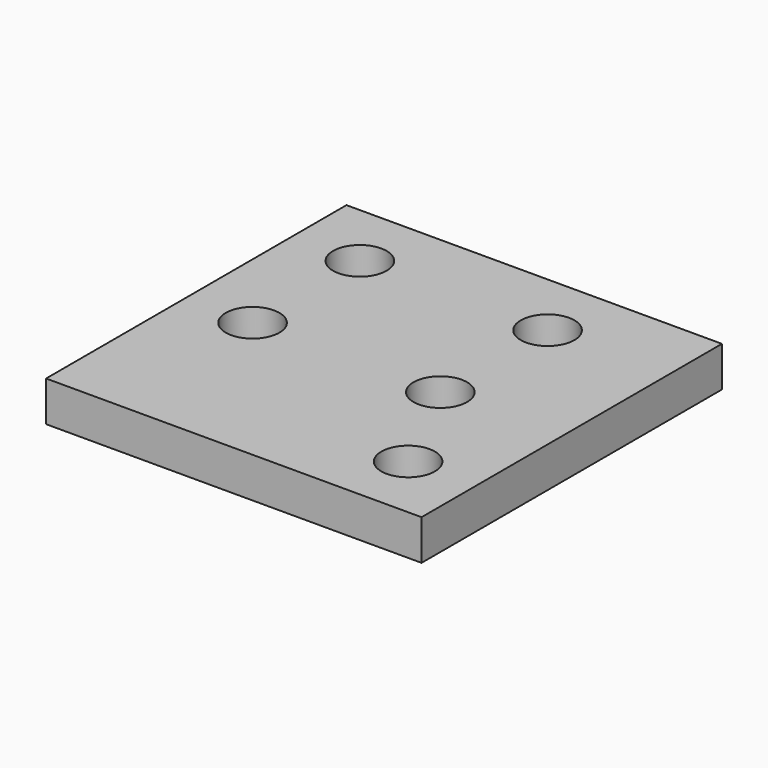
from build123d import *

# Parameters (mm, degrees)
F0_W     = 38
F0_H     = 38
F1_DEPTH = 3
F3_D     = 4
F5_DEPTH = 25


with BuildPart() as f1:
    # F0 (on Top) → F1 (new body)
    with BuildSketch(Plane.XY):
        Rectangle(F0_W, F0_H)
    extrude(amount=F1_DEPTH)

    # F3 (through all)
    with Locations(Plane.XY.offset(3)):
        with Locations((0, 4), (0, 14), (-14, 14), (4, -4), (-14, 4)):
            Hole(F3_D / 2)

    # F4 (on face) → F5 (cut)
    with BuildSketch(Plane.XY.offset(3)):
        Polygon((19, 19), (9, 19), (9, -9), (-19, -9), (-19, -19), (19, -19), align=None)
    extrude(amount=-F5_DEPTH, mode=Mode.SUBTRACT)


solid = f1.part
